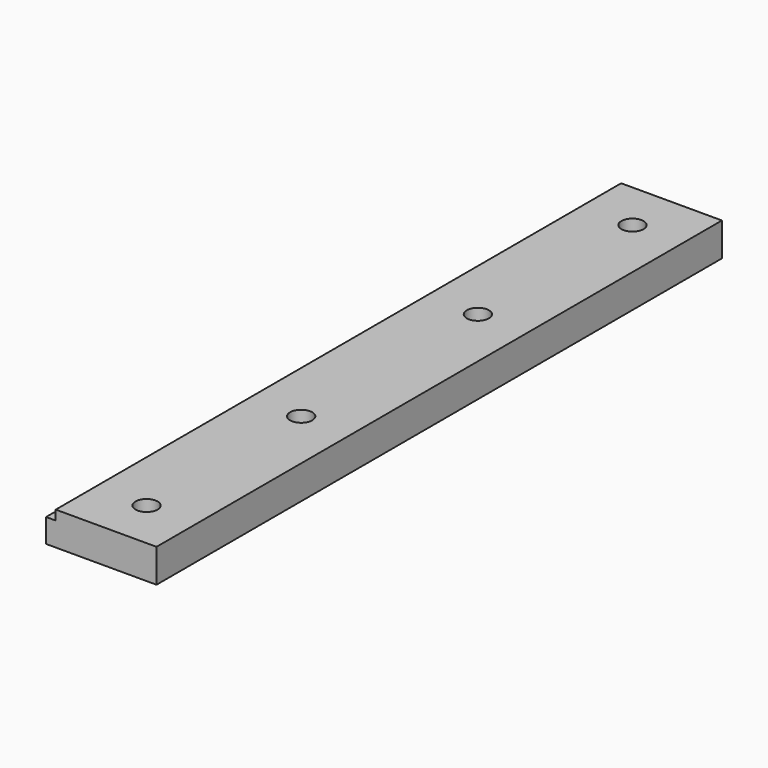
from build123d import *

# Parameters (mm, degrees)
F1_DEPTH = 128
F3_DEPTH = 3.5
F4_R     = 2
F5_DEPTH = 6.051


with BuildPart() as f1:
    # F0 (on Front) → F1 (new body)
    with BuildSketch(Plane.XZ):
        Polygon((24.829483, 0), (44.829483, 0), (44.829483, 6.05), (26.579483, 6.05), (26.579483, 4.3), (24.829483, 4.3), align=None)
    extrude(amount=F1_DEPTH)

    # F2 (on face) → F3 (cut)
    with BuildSketch(Plane(origin=(0, 0, 0), x_dir=(1, 0, 0), z_dir=(0, 0, -1))):
        with BuildLine():
            ThreePointArc((32.329483, 117), (32.91527, 115.585786), (34.329483, 115))
            Line((34.329483, 115), (37.329483, 115))
            ThreePointArc((37.329483, 115), (38.743697, 115.585786), (39.329483, 117))
            Line((39.329483, 117), (39.329483, 121))
            ThreePointArc((39.329483, 121), (38.743697, 122.414214), (37.329483, 123))
            Line((37.329483, 123), (34.329483, 123))
            ThreePointArc((34.329483, 123), (32.91527, 122.414214), (32.329483, 121))
            Line((32.329483, 121), (32.329483, 117))
        make_face()
        with BuildLine():
            ThreePointArc((32.329483, 82), (32.91527, 80.585786), (34.329483, 80))
            Line((34.329483, 80), (37.329483, 80))
            ThreePointArc((37.329483, 80), (38.743697, 80.585786), (39.329483, 82))
            Line((39.329483, 82), (39.329483, 86))
            ThreePointArc((39.329483, 86), (38.743697, 87.414214), (37.329483, 88))
            Line((37.329483, 88), (34.329483, 88))
            ThreePointArc((34.329483, 88), (32.91527, 87.414214), (32.329483, 86))
            Line((32.329483, 86), (32.329483, 82))
        make_face()
        with BuildLine():
            ThreePointArc((37.329483, 40), (38.743697, 40.585786), (39.329483, 42))
            Line((39.329483, 42), (39.329483, 46))
            ThreePointArc((39.329483, 46), (38.743697, 47.414214), (37.329483, 48))
            Line((37.329483, 48), (34.329483, 48))
            ThreePointArc((34.329483, 48), (32.91527, 47.414214), (32.329483, 46))
            Line((32.329483, 46), (32.329483, 42))
            ThreePointArc((32.329483, 42), (32.91527, 40.585786), (34.329483, 40))
            Line((34.329483, 40), (37.329483, 40))
        make_face()
        with BuildLine():
            ThreePointArc((37.329483, 5), (38.743697, 5.585786), (39.329483, 7))
            Line((39.329483, 7), (39.329483, 11))
            ThreePointArc((39.329483, 11), (38.743697, 12.414214), (37.329483, 13))
            Line((37.329483, 13), (34.329483, 13))
            ThreePointArc((34.329483, 13), (32.91527, 12.414214), (32.329483, 11))
            Line((32.329483, 11), (32.329483, 7))
            ThreePointArc((32.329483, 7), (32.91527, 5.585786), (34.329483, 5))
            Line((34.329483, 5), (37.329483, 5))
        make_face()
    extrude(amount=-F3_DEPTH, mode=Mode.SUBTRACT)

    # F4 (on face) → F5 (cut, through all)
    with BuildSketch(Plane(origin=(0, 0, 0), x_dir=(1, 0, 0), z_dir=(0, 0, -1))):
        with Locations((35.829483, 119)):
            Circle(F4_R)
        with Locations((35.829483, 84)):
            Circle(F4_R)
        with Locations((35.829483, 44)):
            Circle(F4_R)
        with Locations((35.829483, 9)):
            Circle(F4_R)
    extrude(amount=-F5_DEPTH, mode=Mode.SUBTRACT)


solid = f1.part
